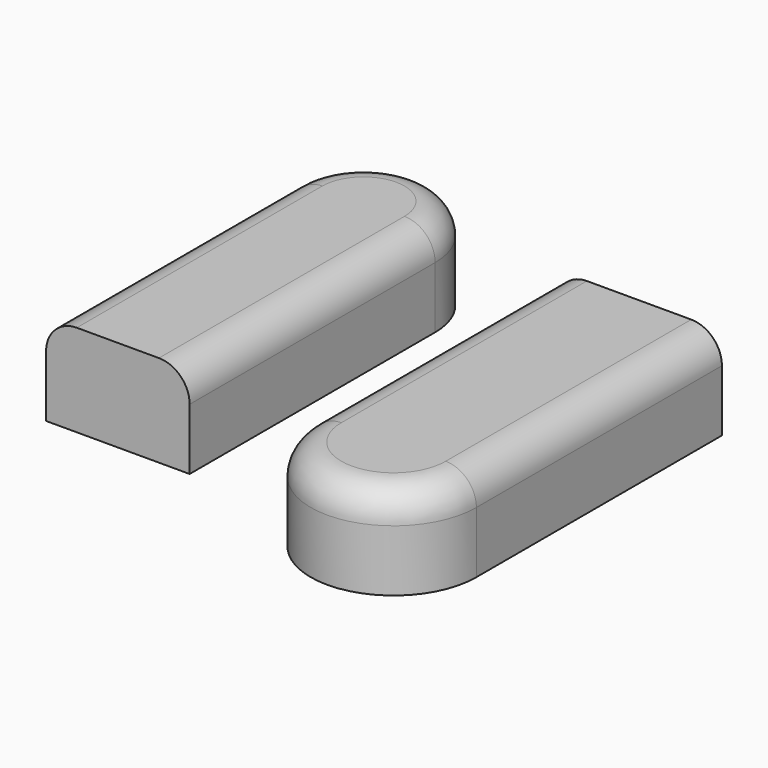
from build123d import *

# Parameters (mm, degrees)
F1_DEPTH = 15
F3_DEPTH = 15
F4_R     = 5
F4_2_R   = 5


with BuildPart() as f1:
    # F0 (on Top) → F1 (new body)
    with BuildSketch(Plane.XY):
        with BuildLine():
            ThreePointArc((9.621711, 21.134868), (-2.072368, 32.828947), (-13.766447, 21.134868))
            Line((-13.766447, 21.134868), (-13.766447, -28.865132))
            Line((-13.766447, -28.865132), (9.621711, -28.865132))
            Line((9.621711, -28.865132), (9.621711, 21.134868))
        make_face()
    extrude(amount=F1_DEPTH)

    # F4
    f4_edges = [f1.edges().sort_by_distance(p)[0] for p in [
        (-13.766447, -3.865132, 15),
    ]]
    fillet(f4_edges, radius=F4_R)


with BuildPart() as f3:
    # F2 (on Top) → F3 (new body)
    with BuildSketch(Plane.XY):
        with BuildLine():
            Line((48.865134, 21.726973), (28.865134, 21.726973))
            Line((28.865134, 21.726973), (28.865134, -28.273027))
            ThreePointArc((28.865134, -28.273027), (42.365134, -41.773027), (55.865134, -28.273027))
            Line((55.865134, -28.273027), (55.865134, 21.726973))
            Line((55.865134, 21.726973), (48.865134, 21.726973))
        make_face()
    extrude(amount=F3_DEPTH)

    # F4#2
    f4_2_edges = [f3.edges().sort_by_distance(p)[0] for p in [
        (28.865134, -3.273027, 15),
    ]]
    fillet(f4_2_edges, radius=F4_2_R)


solid = Compound([f1.part, f3.part])
